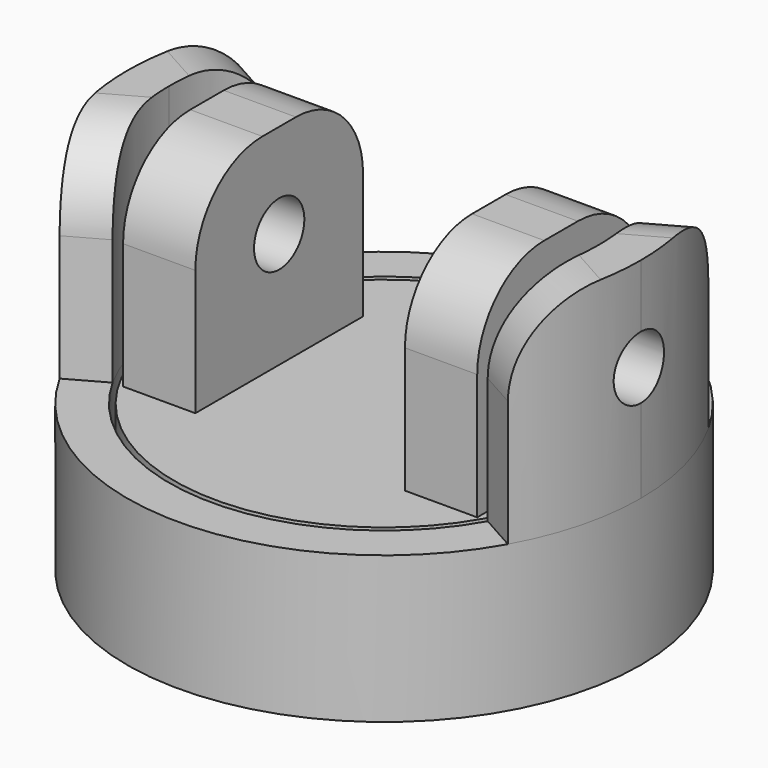
from build123d import *

# Parameters (mm, degrees)
F0_R           = 10
F1_DEPTH       = 3
F0_R_2         = 12.25
F0_R_3         = 10.25
F2_DEPTH       = 3
F2_DEPTH_BACK  = 4
F3_START       = -3
F3_DEPTH       = 1
F5_DEPTH       = 10
F6_R           = 2.5
F7_DEPTH       = 1.001
F8_W           = 3.4477650841
F8_H           = 10
F9_DEPTH       = 10
F10_R          = 4
F10_2_R        = 4
F11_R          = 1.5
F12_DEPTH      = 12.2510001
F12_DEPTH_BACK = 12.2510001


with BuildPart() as f1:
    # F0 (on Top) → F1 (new body)
    with BuildSketch(Plane.XY):
        Circle(F0_R)
    extrude(amount=F1_DEPTH)

    # F8 (on face) → F9 (join, through all)
    with BuildSketch(Plane.XY.offset(3)):
        with Locations((6.723882542, 0)):
            Rectangle(F8_W, F8_H)
        with Locations((-6.723882542, 0)):
            Rectangle(F8_W, F8_H)
    extrude(amount=F9_DEPTH)

    # F10#2
    f10_2_edges = [f1.edges().sort_by_distance(p)[0] for p in [
        (6.723883, -5, 13),
        (-6.723883, -5, 13),
        (6.723883, 5, 13),
        (-6.723883, 5, 13),
    ]]
    fillet(f10_2_edges, radius=F10_2_R)


with BuildPart() as f2:
    # F0 (on Top) → F2 (new body, two sides)
    with BuildSketch(Plane.XY) as f2_sk:
        Circle(F0_R_2)
        Circle(F0_R_3, mode=Mode.SUBTRACT)
    extrude(amount=F2_DEPTH)
    extrude(f2_sk.sketch, amount=-F2_DEPTH_BACK)

    # F0 (on Top) → F3 (join)
    with BuildSketch(Plane.XY.offset(F3_START)):
        Circle(F0_R_3)
        Circle(F0_R, mode=Mode.SUBTRACT)
        Circle(F0_R)
    extrude(amount=-F3_DEPTH)

    # F4 (on face) → F5 (join)
    with BuildSketch(Plane.XY.offset(3)):
        with BuildLine():
            ThreePointArc((-8.9477650841, -5), (-9.9191000628, -2.5833996872), (-10.25, 0))
            ThreePointArc((-10.25, 0), (-9.9191000628, 2.5833996872), (-8.9477650841, 5))
            Line((-8.9477650841, 5), (-10.6936704663, 5.9756097561))
            ThreePointArc((-10.6936704663, 5.9756097561), (-11.8545342214, 3.087477675), (-12.25, 0))
            ThreePointArc((-12.25, 0), (-11.8545342214, -3.087477675), (-10.6936704663, -5.9756097561))
            Line((-10.6936704663, -5.9756097561), (-8.9477650841, -5))
        make_face()
        with BuildLine():
            ThreePointArc((12.25, 0), (11.8545342214, 3.087477675), (10.6936704663, 5.9756097561))
            Line((10.6936704663, 5.9756097561), (8.9477650841, 5))
            ThreePointArc((8.9477650841, 5), (9.9191000628, 2.5833996872), (10.25, 0))
            ThreePointArc((10.25, 0), (9.9191000628, -2.5833996872), (8.9477650841, -5))
            Line((8.9477650841, -5), (10.6936704663, -5.9756097561))
            ThreePointArc((10.6936704663, -5.9756097561), (11.8545342214, -3.087477675), (12.25, 0))
        make_face()
    extrude(amount=F5_DEPTH)

    # F6 (on face) → F7 (cut, through all)
    with BuildSketch(Plane.XY.offset(-3)):
        Circle(F6_R)
    extrude(amount=-F7_DEPTH, mode=Mode.SUBTRACT)

    # F10
    f10_edges = [f2.edges().sort_by_distance(p)[0] for p in [
        (-9.820718, 5.487805, 13),
        (-9.820718, -5.487805, 13),
        (9.820718, -5.487805, 13),
        (9.820718, 5.487805, 13),
    ]]
    fillet(f10_edges, radius=F10_R)


with BuildPart() as f12_tool:
    # F11 (on Right) → F12 (new body, two sides)
    with BuildSketch(Plane.YZ) as f12_sk:
        with Locations((0, 8.5)):
            Circle(F11_R)
    extrude(amount=-F12_DEPTH)
    extrude(f12_sk.sketch, amount=F12_DEPTH_BACK)


with BuildPart() as f1_1:
    add(f1.part)

    # F12: cut by f12_tool
    add(f12_tool.part, mode=Mode.SUBTRACT)


with BuildPart() as f2_1:
    add(f2.part)

    # F12: cut by f12_tool
    add(f12_tool.part, mode=Mode.SUBTRACT)


solid = Compound([f1_1.part, f2_1.part])
